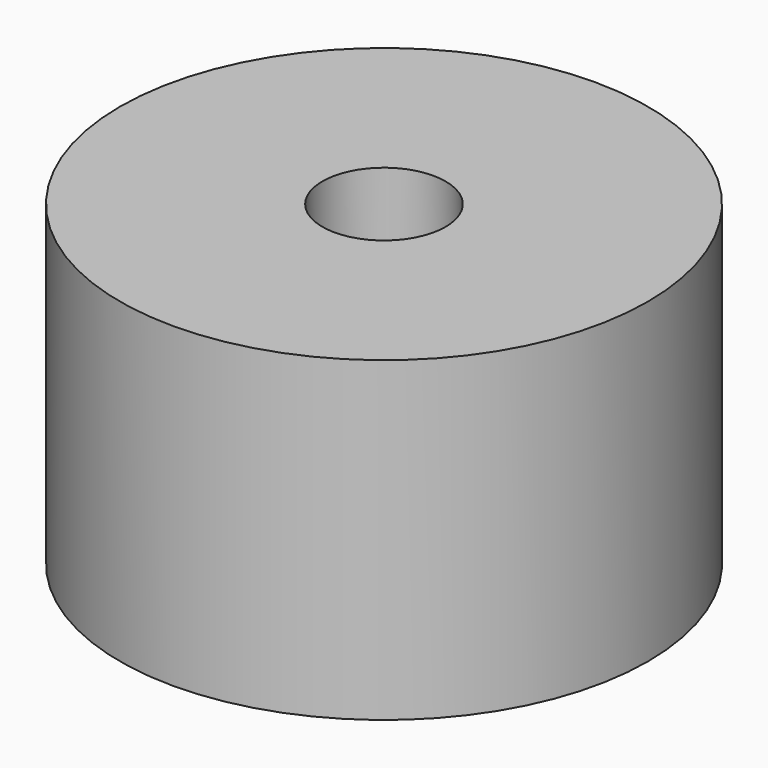
from build123d import *

# Parameters (mm, degrees)
F0_W      = 3.5
F0_H      = 3
F2_R      = 1
F3_DEPTH  = 3
F5_R      = 0.75
F6_DEPTH  = 1
F8_R      = 0.9
F9_DEPTH  = 2
F11_R     = 0.9
F12_DEPTH = 1
F14_R     = 1.75
F15_DEPTH = 2


with BuildPart() as f1:
    # F0 (on Front) → F1 (revolve)
    with BuildSketch(Plane.XZ):
        with Locations((1.75, 1.5)):
            Rectangle(F0_W, F0_H)
    revolve(axis=Axis((0, 0, 1.5), (0, 0, -1)))

    # F2 (on face) → F3 (cut, through all)
    with BuildSketch(Plane(origin=(0, 0, 0), x_dir=(1, 0, 0), z_dir=(0, 0, -1))):
        Circle(F2_R)
    extrude(amount=-F3_DEPTH, mode=Mode.SUBTRACT)


with BuildPart() as f4:
    # F0 (on Front) → F4 (revolve)
    with BuildSketch(Plane.XZ):
        Polygon((3.5, 3), (3.5, 0), (4.5, 0), (4.5, 4), (0, 4), (0, 3), align=None)
    revolve(axis=Axis((0, 0, 2.75), (0, 0, -1)))

    # F5 (on face) → F6 (cut, through all)
    with BuildSketch(Plane.XY.offset(4)):
        Circle(F5_R)
    extrude(amount=-F6_DEPTH, mode=Mode.SUBTRACT)


with BuildPart() as f7:
    # F0 (on Front) → F7 (revolve)
    with BuildSketch(Plane.XZ):
        Polygon((4.5, 4), (4.5, 0), (5.5, 0), (5.5, 6), (0, 6), (0, 5.5), (0, 4), align=None)
    revolve(axis=Axis((0, 0, 4.5), (0, 0, -1)))

    # F8 (on face) → F9 (cut, through all)
    with BuildSketch(Plane.XY.offset(6)):
        Circle(F8_R)
    extrude(amount=-F9_DEPTH, mode=Mode.SUBTRACT)


with BuildPart() as f10:
    # F0 (on Front) → F10 (revolve)
    with BuildSketch(Plane.XZ):
        Polygon((5.5, 6), (5.5, 0), (6.5, 0), (6.5, 7), (0, 7), (0, 6), align=None)
    revolve(axis=Axis((0, 0, 2.75), (0, 0, -1)))

    # F11 (on face) → F12 (cut, through all)
    with BuildSketch(Plane.XY.offset(7)):
        Circle(F11_R)
    extrude(amount=-F12_DEPTH, mode=Mode.SUBTRACT)


with BuildPart() as f13:
    # F0 (on Front) → F13 (revolve)
    with BuildSketch(Plane.XZ):
        Polygon((6.5, 7), (6.5, 0), (7.5, 0), (7.5, 9), (0, 9), (0, 7), align=None)
    revolve(axis=Axis((0, 0, 2.75), (0, 0, -1)))

    # F14 (on face) → F15 (cut, through all)
    with BuildSketch(Plane.XY.offset(9)):
        Circle(F14_R)
    extrude(amount=-F15_DEPTH, mode=Mode.SUBTRACT)


solid = Compound([f1.part, f4.part, f7.part, f10.part, f13.part])
